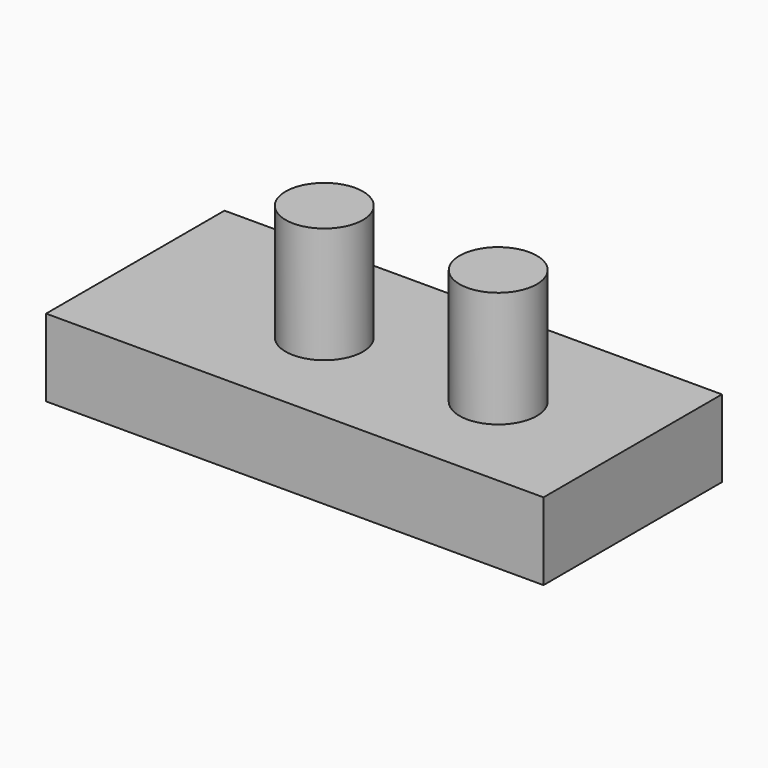
from build123d import *

# Parameters (mm, degrees)
F0_W     = 64.351343
F0_H     = 28.852971
F0_R     = 5
F1_DEPTH = 10
F2_R     = 5
F3_DEPTH = 15


with BuildPart() as f1:
    # F0 (on Top) → F1 (new body)
    with BuildSketch(Plane.XY):
        with Locations((6.974258, 0.935995)):
            Rectangle(F0_W, F0_H)
        Circle(F0_R, mode=Mode.SUBTRACT)
        with Locations((30.753192, 0)):
            Circle(F0_R, mode=Mode.SUBTRACT)
        Circle(F0_R)
        with Locations((30.753192, 0)):
            Circle(F0_R)
    extrude(amount=F1_DEPTH)

    # F2 (on face) → F3 (join)
    with BuildSketch(Plane.XY.offset(10)):
        Circle(F2_R)
        with Locations((22.5, 0)):
            Circle(F2_R)
    extrude(amount=F3_DEPTH)


solid = f1.part
